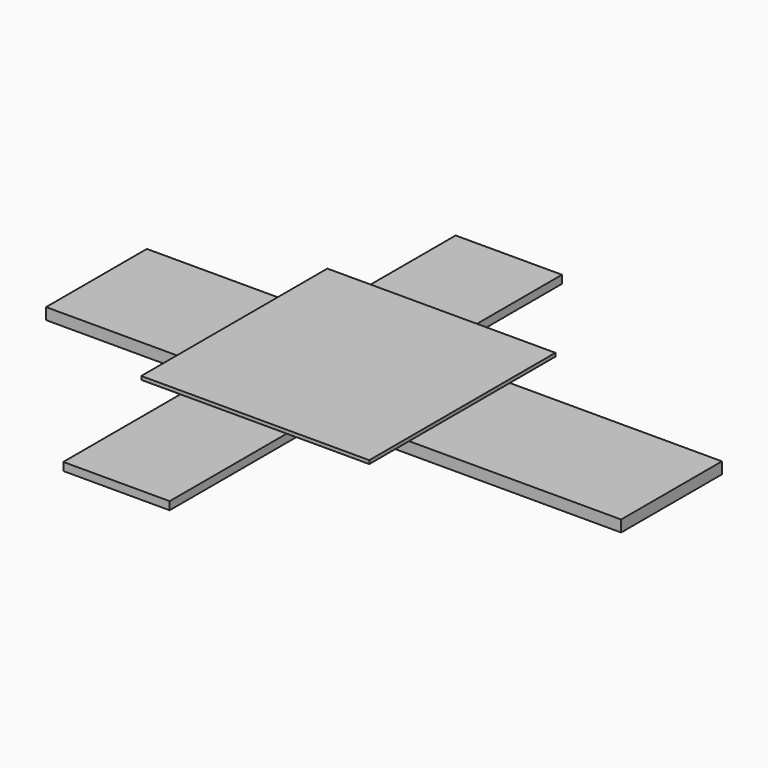
from build123d import *

# Parameters (mm, degrees)
F0_W     = 127.1624974906
F0_H     = 27.8577823192
F1_DEPTH = 2.54
F2_W     = 23.5141962767
F2_H     = 27.8577823192
F2_H_2   = 46.019657515
F2_H_3   = 34.5669230446
F3_DEPTH = 1.778
F4_W     = 18.2572918436
F4_H     = 51.4373374962
F4_W_2   = 23.5141962767
F4_W_3   = 8.6478181183
F5_DEPTH = 0.762


with BuildPart() as f1:
    # F0 (on Top) → F1 (new body)
    with BuildSketch(Plane.XY):
        with Locations((-14.2351035029, 13.9288911596)):
            Rectangle(F0_W, F0_H)
    extrude(amount=F1_DEPTH)

    # F2 (on face) → F3 (join)
    with BuildSketch(Plane.XY.offset(2.54)):
        with Locations((-25.4345647991, 13.9288911596)):
            Rectangle(F2_W, F2_H)
        with Locations((-25.4345647991, -23.0098287575)):
            Rectangle(F2_W, F2_H_2)
        with Locations((-25.4345647991, 45.1412438415)):
            Rectangle(F2_W, F2_H_3)
    extrude(amount=F3_DEPTH)

    # F4 (on face) → F5 (join)
    with BuildSketch(Plane.XY.offset(4.318)):
        with Locations((-4.5488207389, 12.0593749848)):
            Rectangle(F4_W, F4_H)
        with Locations((-25.4345647991, 12.0593749848)):
            Rectangle(F4_W_2, F4_H)
        with Locations((-41.5155719966, 12.0593749848)):
            Rectangle(F4_W_3, F4_H)
    extrude(amount=F5_DEPTH)


solid = f1.part
